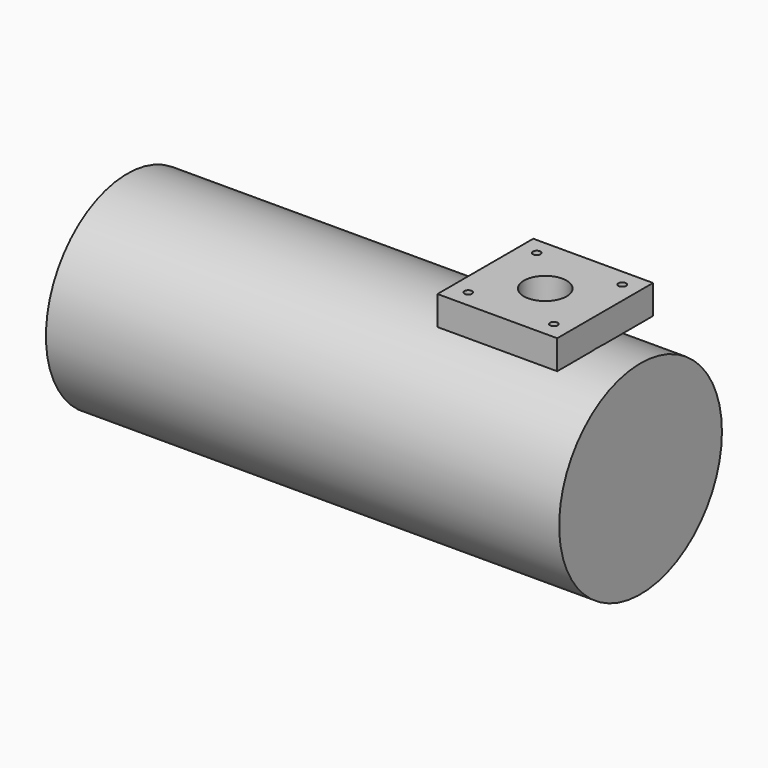
from build123d import *

# Parameters (mm, degrees)
F0_W          = 88.9
F0_H          = 88.9
F0_R          = 2.803559
F0_R_2        = 15.875
F1_DEPTH      = 21.59
F2_R          = 75.507196
F3_DEPTH      = 76.2
F3_DEPTH_BACK = 304.8


with BuildPart() as f1:
    # F0 (on Top) → F1 (new body)
    with BuildSketch(Plane.XY):
        Rectangle(F0_W, F0_H)
        with Locations((-31.75, -31.75)):
            Circle(F0_R, mode=Mode.SUBTRACT)
        with Locations((31.75, -31.75)):
            Circle(F0_R, mode=Mode.SUBTRACT)
        with Locations((-31.75, 31.75)):
            Circle(F0_R, mode=Mode.SUBTRACT)
        Circle(F0_R_2, mode=Mode.SUBTRACT)
        with Locations((31.75, 31.75)):
            Circle(F0_R, mode=Mode.SUBTRACT)
    extrude(amount=F1_DEPTH)


with BuildPart() as f3:
    # F2 (on Right) → F3 (new body, two sides)
    with BuildSketch(Plane.YZ) as f3_sk:
        with Locations((-6.816271, -75.198904)):
            Circle(F2_R)
    extrude(amount=F3_DEPTH)
    extrude(f3_sk.sketch, amount=-F3_DEPTH_BACK)


solid = Compound([f1.part, f3.part])
